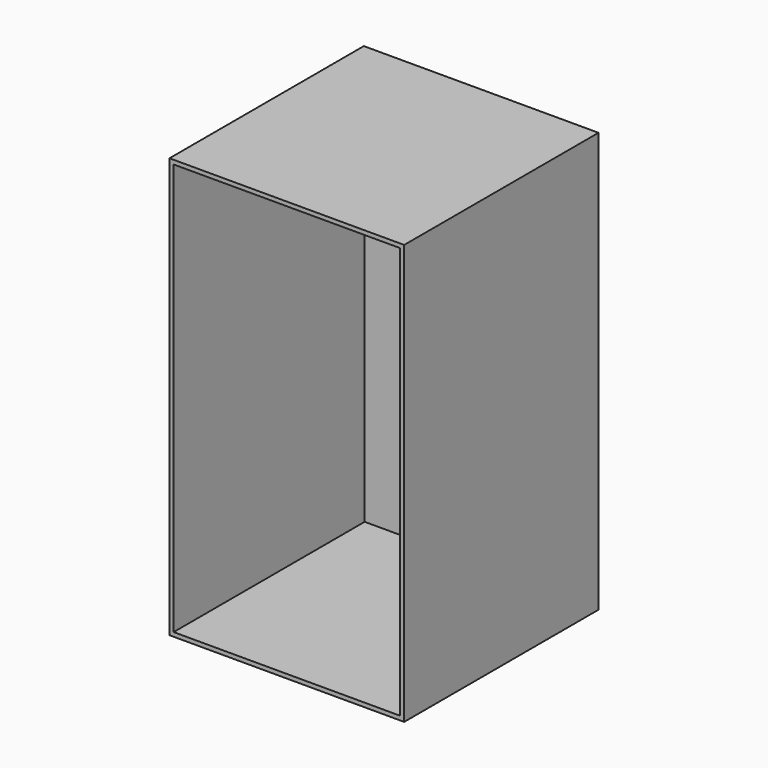
from build123d import *

# Parameters (mm, degrees)
F0_W     = 550
F0_H     = 580
F1_DEPTH = 1000
F2_T     = 10


with BuildPart() as f1:
    # F0 (on Top) → F1 (new body)
    with BuildSketch(Plane.XY):
        Rectangle(F0_W, F0_H)
    extrude(amount=F1_DEPTH)

    # F2
    f2_openings = [f1.faces().sort_by_distance(p)[0] for p in [
        (0, -290, 500),
    ]]
    offset(amount=F2_T, openings=f2_openings, kind=Kind.INTERSECTION)


solid = f1.part
